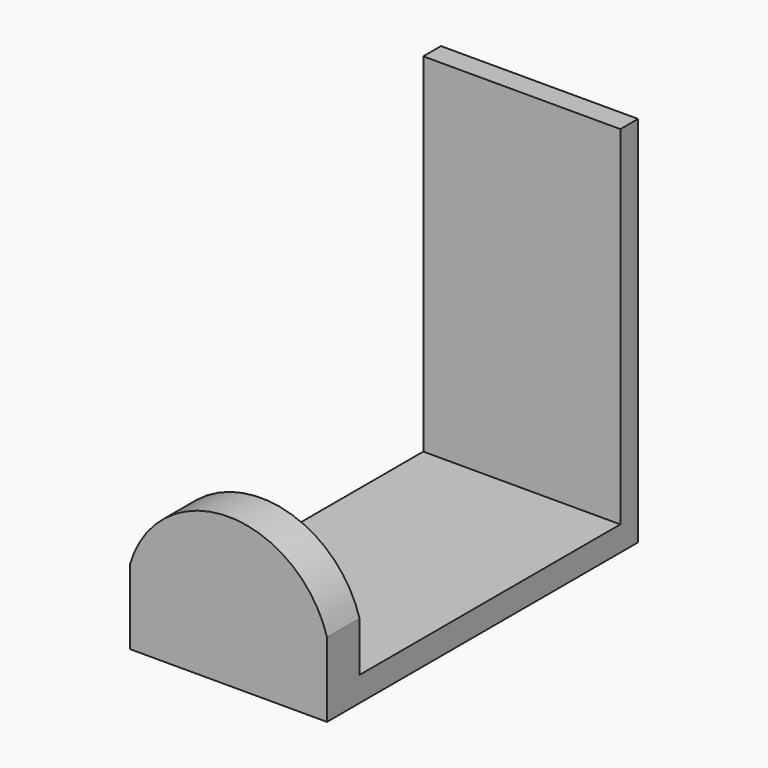
from build123d import *

# Parameters (mm, degrees)
F0_W     = 39.6377146244
F0_H     = 78.2129243016
F1_DEPTH = 5
F2_W     = 39.6377146244
F2_H     = 4.4546872377
F3_DEPTH = 70
F4_W     = 39.6377146244
F4_H     = 8.1823468208
F5_DEPTH = 25
F7_DEPTH = 25


with BuildPart() as f1:
    # F0 (on Top) → F1 (new body)
    with BuildSketch(Plane.XY):
        with Locations((19.8188573122, 39.1064621508)):
            Rectangle(F0_W, F0_H)
    extrude(amount=F1_DEPTH)

    # F2 (on face) → F3 (join)
    with BuildSketch(Plane.XY.offset(5)):
        with Locations((19.8188573122, 75.9855806828)):
            Rectangle(F2_W, F2_H)
    extrude(amount=F3_DEPTH)

    # F4 (on face) → F5 (join)
    with BuildSketch(Plane.XY.offset(5)):
        with Locations((19.8188573122, 4.0911734104)):
            Rectangle(F4_W, F4_H)
    extrude(amount=F5_DEPTH)

    # F6 (on face) → F7 (cut)
    with BuildSketch(Plane.XZ):
        with BuildLine():
            ThreePointArc((0, 15), (19.8188573122, 29.9098357825), (39.6377146244, 15))
            Line((39.6377146244, 15), (39.6377146244, 30))
            Line((39.6377146244, 30), (0, 30))
            Line((0, 30), (0, 15))
        make_face()
    extrude(amount=-F7_DEPTH, mode=Mode.SUBTRACT)


solid = f1.part
